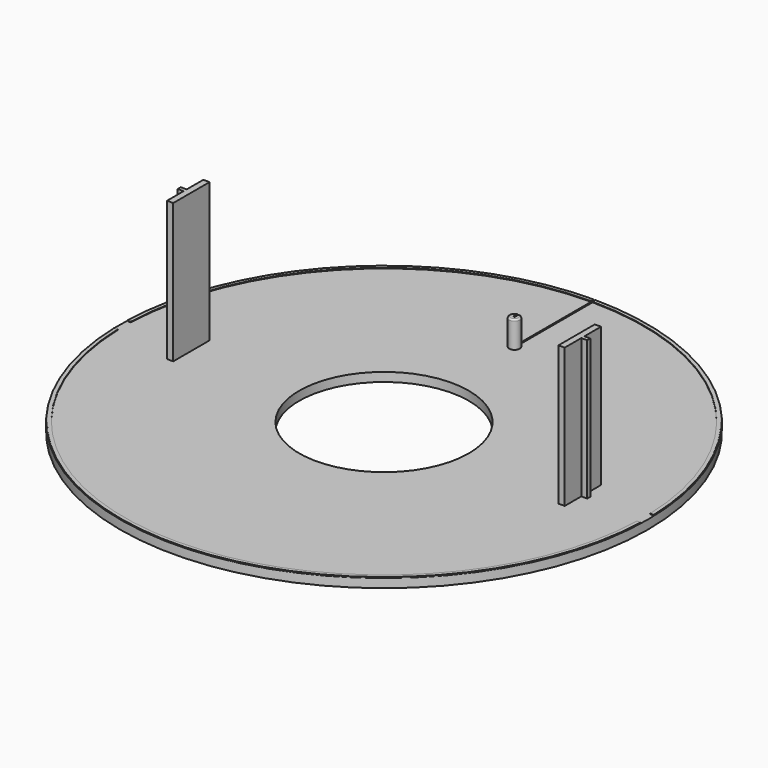
from build123d import *

# Parameters (mm, degrees)
F0_R      = 89
F0_R_2    = 28.6
F1_DEPTH  = 3
F3_DEPTH  = 47
F6_DEPTH  = 9
F7_R      = 0.5
F9_DEPTH  = 0.2
F11_DEPTH = 9.5


with BuildPart() as f1:
    # F0 (on Top) → F1 (new body)
    with BuildSketch(Plane.XY):
        Circle(F0_R)
        Circle(F0_R_2, mode=Mode.SUBTRACT)
    extrude(amount=F1_DEPTH)

    # F2 (on face) → F3 (join)
    with BuildSketch(Plane.XY.offset(3)):
        Polygon((-64.95, 7.65), (-67.05, 7.65), (-67.05, 0.65), (-69.05, 0.65), (-69.05, -0.65), (-67.05, -0.65), (-67.05, -7.65), (-64.95, -7.65), align=None)
    extrude(amount=F3_DEPTH)

    # F4: F1 across plane


with BuildPart() as f1_1:
    add(f1.part)
    add(f1.part.mirror(Plane.YZ))

    # F5 (on face) → F6 (join)
    with BuildSketch(Plane.XY.offset(3)):
        with BuildLine():
            Line((-0.25, 55), (-0.25, 56.782554))
            ThreePointArc((-0.25, 56.782554), (0, 53.2), (0.25, 56.782554))
            Line((0.25, 56.782554), (0.25, 55))
            ThreePointArc((0.25, 55), (0, 54.75), (-0.25, 55))
        make_face()
    extrude(amount=F6_DEPTH)

    # F7
    f7_edges = [f1_1.edges().sort_by_distance(p)[0] for p in [
        (0, 53.2, 12),
    ]]
    fillet(f7_edges, radius=F7_R)

    # F8 (on face) → F9 (join)
    with BuildSketch(Plane.XY.offset(3)):
        with BuildLine():
            Line((87.556824, 2.75), (88.757408, 2.75))
            ThreePointArc((88.757408, 2.75), (0, 88.8), (-88.757408, 2.75))
            Line((-88.757408, 2.75), (-87.556824, 2.75))
            ThreePointArc((-87.556824, 2.75), (0, 87.6), (87.556824, 2.75))
        make_face()
        with BuildLine():
            Line((88.757408, -2.75), (87.556824, -2.75))
            ThreePointArc((87.556824, -2.75), (0, -87.6), (-87.556824, -2.75))
            Line((-87.556824, -2.75), (-88.757408, -2.75))
            ThreePointArc((-88.757408, -2.75), (0, -88.8), (88.757408, -2.75))
        make_face()
    extrude(amount=F9_DEPTH)

    # F10 (on face) → F11 (cut)
    with BuildSketch(Plane.XY.offset(12)):
        with BuildLine():
            Line((0.25, 55), (0.25, 56.275735))
            Line((0.25, 56.275735), (0.25, 92))
            Line((0.25, 92), (-0.25, 92))
            Line((-0.25, 92), (-0.25, 56.275735))
            Line((-0.25, 56.275735), (-0.25, 55))
            ThreePointArc((-0.25, 55), (0, 54.75), (0.25, 55))
        make_face()
    extrude(amount=-F11_DEPTH, mode=Mode.SUBTRACT)


solid = f1_1.part
